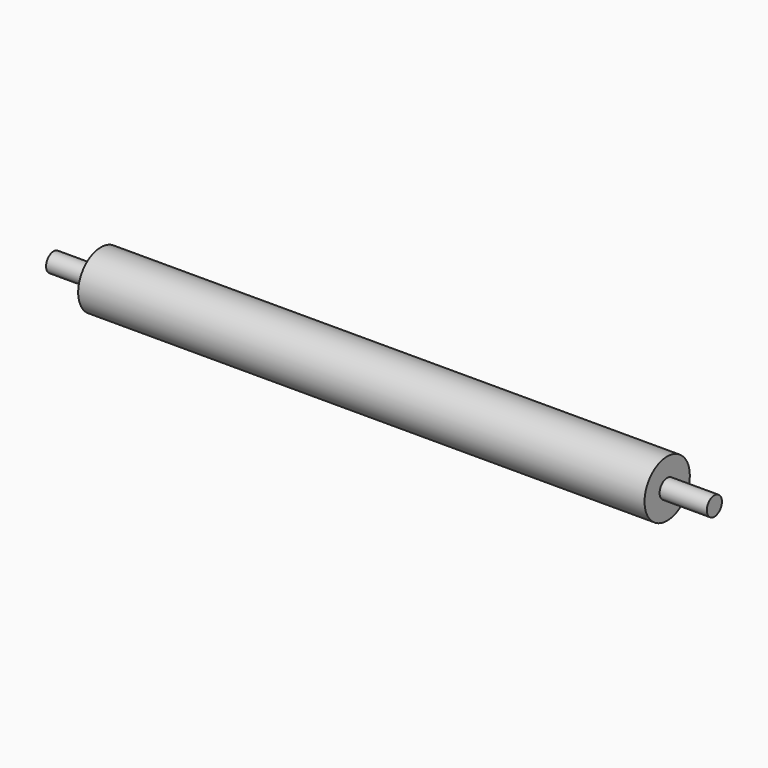
from build123d import *

# Parameters (mm, degrees)
F0_R     = 15
F1_DEPTH = 300
F2_R     = 5
F3_DEPTH = 25
F4_R     = 5
F5_DEPTH = 25


with BuildPart() as f1:
    # F0 (on Right) → F1 (new body)
    with BuildSketch(Plane.YZ):
        Circle(F0_R)
    extrude(amount=F1_DEPTH)

    # F2 (on face) → F3 (join)
    with BuildSketch(Plane(origin=(0, 0, 0), x_dir=(0, -1, 0), z_dir=(-1, 0, 0))):
        Circle(F2_R)
    extrude(amount=F3_DEPTH)

    # F4 (on face) → F5 (join)
    with BuildSketch(Plane.YZ.offset(300)):
        Circle(F4_R)
    extrude(amount=F5_DEPTH)


solid = f1.part
